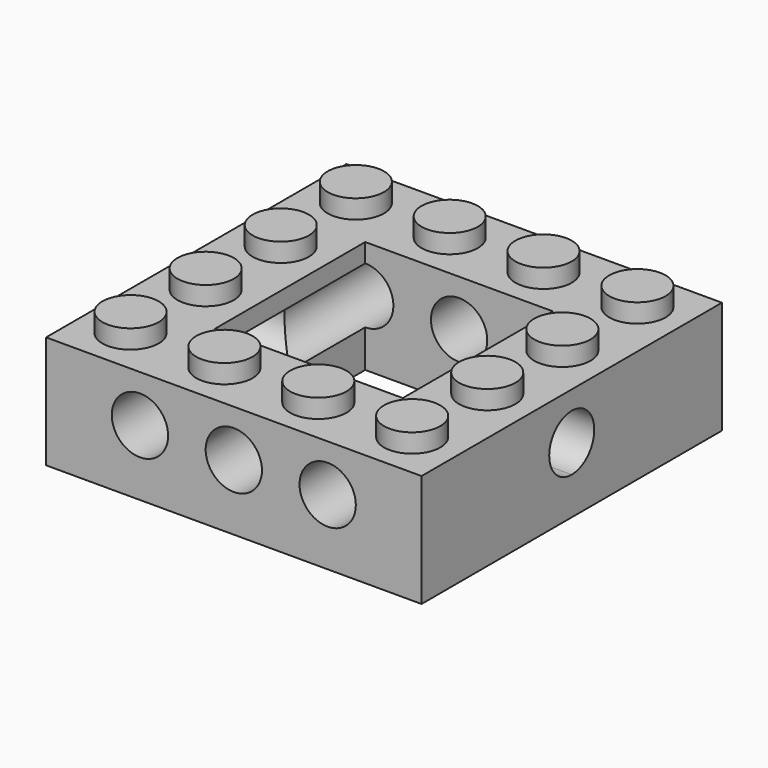
from build123d import *

# Parameters (mm, degrees)
F0_W     = 31.75
F0_H     = 31.75
F0_R     = 2.38125
F1_DEPTH = 9.525
F2_DEPTH = 11.1125
F3_W     = 15.875
F3_H     = 15.875
F4_DEPTH = 12.7
F5_R     = 2.38125
F6_DEPTH = 50.8
F8_DEPTH = 50.8


with BuildPart() as f1:
    # F0 (on Top) → F1 (new body)
    with BuildSketch(Plane.XY):
        Rectangle(F0_W, F0_H)
        with Locations((-11.90625, -11.90625)):
            Circle(F0_R, mode=Mode.SUBTRACT)
        with Locations((-3.96875, -11.90625)):
            Circle(F0_R, mode=Mode.SUBTRACT)
        with Locations((-11.90625, -3.96875)):
            Circle(F0_R, mode=Mode.SUBTRACT)
        with Locations((-3.96875, -3.96875)):
            Circle(F0_R, mode=Mode.SUBTRACT)
        with Locations((3.96875, -11.90625)):
            Circle(F0_R, mode=Mode.SUBTRACT)
        with Locations((11.90625, -11.90625)):
            Circle(F0_R, mode=Mode.SUBTRACT)
        with Locations((3.96875, -3.96875)):
            Circle(F0_R, mode=Mode.SUBTRACT)
        with Locations((11.90625, -3.96875)):
            Circle(F0_R, mode=Mode.SUBTRACT)
        with Locations((-11.90625, 3.96875)):
            Circle(F0_R, mode=Mode.SUBTRACT)
        with Locations((-3.96875, 3.96875)):
            Circle(F0_R, mode=Mode.SUBTRACT)
        with Locations((-11.90625, 11.90625)):
            Circle(F0_R, mode=Mode.SUBTRACT)
        with Locations((-3.96875, 11.90625)):
            Circle(F0_R, mode=Mode.SUBTRACT)
        with Locations((3.96875, 3.96875)):
            Circle(F0_R, mode=Mode.SUBTRACT)
        with Locations((11.90625, 3.96875)):
            Circle(F0_R, mode=Mode.SUBTRACT)
        with Locations((3.96875, 11.90625)):
            Circle(F0_R, mode=Mode.SUBTRACT)
        with Locations((11.90625, 11.90625)):
            Circle(F0_R, mode=Mode.SUBTRACT)
    extrude(amount=F1_DEPTH)

    # F0 (on Top) → F2 (join)
    with BuildSketch(Plane.XY):
        with Locations((-11.90625, 11.90625)):
            Circle(F0_R)
        with Locations((-3.96875, 11.90625)):
            Circle(F0_R)
        with Locations((3.96875, 11.90625)):
            Circle(F0_R)
        with Locations((11.90625, 11.90625)):
            Circle(F0_R)
        with Locations((11.90625, 3.96875)):
            Circle(F0_R)
        with Locations((3.96875, 3.96875)):
            Circle(F0_R)
        with Locations((-3.96875, 3.96875)):
            Circle(F0_R)
        with Locations((-11.90625, 3.96875)):
            Circle(F0_R)
        with Locations((-11.90625, -3.96875)):
            Circle(F0_R)
        with Locations((-3.96875, -3.96875)):
            Circle(F0_R)
        with Locations((3.96875, -3.96875)):
            Circle(F0_R)
        with Locations((11.90625, -3.96875)):
            Circle(F0_R)
        with Locations((11.90625, -11.90625)):
            Circle(F0_R)
        with Locations((3.96875, -11.90625)):
            Circle(F0_R)
        with Locations((-3.96875, -11.90625)):
            Circle(F0_R)
        with Locations((-11.90625, -11.90625)):
            Circle(F0_R)
    extrude(amount=F2_DEPTH)

    # F3 (on face) → F4 (cut, symmetric)
    with BuildSketch(Plane.XY.offset(9.525)):
        Rectangle(F3_W, F3_H)
    extrude(amount=F4_DEPTH, both=True, mode=Mode.SUBTRACT)

    # F5 (on face) → F6 (cut)
    with BuildSketch(Plane.XZ.offset(15.875)):
        with Locations((7.9375, 5.55625)):
            Circle(F5_R)
        with Locations((0, 5.55625)):
            Circle(F5_R)
        with Locations((-7.9375, 5.55625)):
            Circle(F5_R)
    extrude(amount=-F6_DEPTH, mode=Mode.SUBTRACT)

    # F7 (on face) → F8 (cut)
    with BuildSketch(Plane(origin=(-15.875, 0, 0), x_dir=(0, -1, 0), z_dir=(-1, 0, 0))):
        with BuildLine():
            ThreePointArc((0, 3.175), (1.683798, 3.872452), (2.38125, 5.55625))
            ThreePointArc((2.38125, 5.55625), (-1.683798, 7.240048), (0, 3.175))
        make_face()
    extrude(amount=-F8_DEPTH, mode=Mode.SUBTRACT)


solid = f1.part
